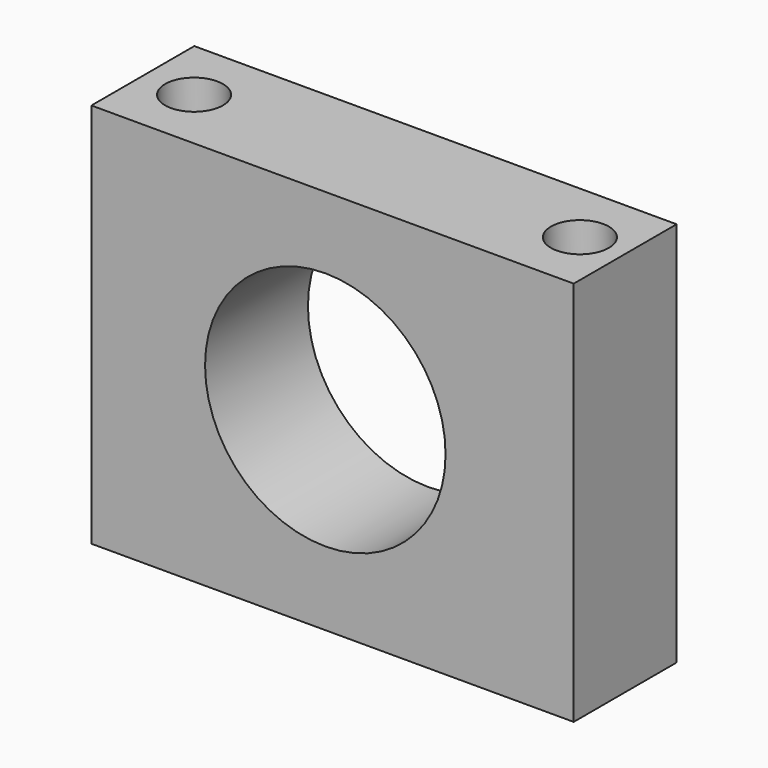
from build123d import *

# Parameters (mm, degrees)
F0_W     = 95.25
F0_H     = 76.2
F0_R     = 23.749
F1_DEPTH = 25.4
F2_R     = 3.5687
F3_DEPTH = 7.1374
F4_R     = 5.715
F5_DEPTH = 7.1374


with BuildPart() as f1:
    # F0 (on Front) → F1 (new body)
    with BuildSketch(Plane.XZ):
        with Locations((19.8670865009, -0.2076110487)):
            Rectangle(F0_W, F0_H)
        with Locations((18.436120823, 0)):
            Circle(F0_R, mode=Mode.SUBTRACT)
    extrude(amount=F1_DEPTH)

    # F2 (on face) → F3 (cut)
    with BuildSketch(Plane.XY.offset(37.8923889513)):
        with Locations((57.6765805199, -11.9477792656)):
            Circle(F2_R)
    extrude(amount=F3_DEPTH, mode=Mode.SUBTRACT)

    # F4 (on face) → F5 (cut)
    with BuildSketch(Plane.XY.offset(37.8923889513)):
        with Locations((-17.6432492146, -12.7)):
            Circle(F4_R)
        with Locations((58.5567507854, -12.7)):
            Circle(F4_R)
    extrude(amount=-F5_DEPTH, mode=Mode.SUBTRACT)


solid = f1.part
